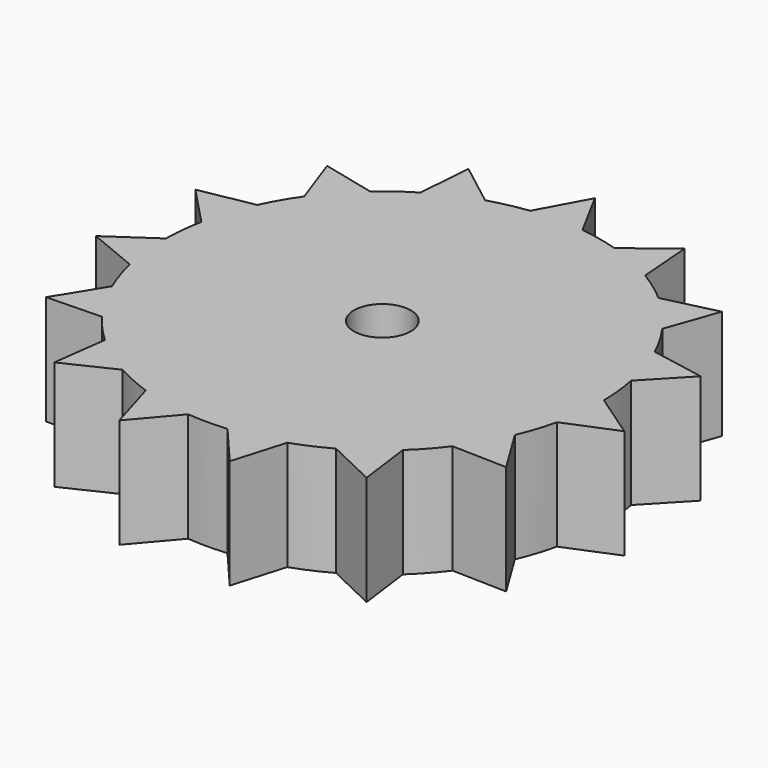
from build123d import *

# Parameters (mm, degrees)
F0_R     = 3.302
F1_DEPTH = 12.7


with BuildPart() as f1:
    # F0 (on Top) → F1 (new body)
    with BuildSketch(Plane.XY):
        with BuildLine():
            ThreePointArc((24.764251, -5.647288), (25.240562, -2.84148), (25.4, 0))
            ThreePointArc((25.4, 0), (25.399308, 0.187557), (25.39723, 0.375103))
            ThreePointArc((25.39723, 0.375103), (25.260856, 2.655023), (24.920228, 4.913475))
            ThreePointArc((24.920228, 4.913475), (24.156836, 7.849032), (23.048956, 10.672658))
            ThreePointArc((23.048956, 10.672658), (21.997045, 12.7), (20.767271, 14.624652))
            ThreePointArc((20.767271, 14.624652), (18.875879, 16.995917), (16.715308, 19.124813))
            ThreePointArc((16.715308, 19.124813), (14.929745, 20.549032), (13.023464, 21.807095))
            ThreePointArc((13.023464, 21.807095), (10.331111, 23.204055), (7.491431, 24.270115))
            ThreePointArc((7.491431, 24.270115), (5.280957, 24.844949), (3.027782, 25.218892))
            ThreePointArc((3.027782, 25.218892), (0, 25.4), (-3.027782, 25.218892))
            ThreePointArc((-3.027782, 25.218892), (-5.280957, 24.844949), (-7.491431, 24.270115))
            ThreePointArc((-7.491431, 24.270115), (-10.331111, 23.204055), (-13.023464, 21.807095))
            ThreePointArc((-13.023464, 21.807095), (-14.929745, 20.549032), (-16.715308, 19.124813))
            ThreePointArc((-16.715308, 19.124813), (-18.875879, 16.995917), (-20.767271, 14.624652))
            ThreePointArc((-20.767271, 14.624652), (-21.997045, 12.7), (-23.048956, 10.672658))
            ThreePointArc((-23.048956, 10.672658), (-24.156836, 7.849032), (-24.920228, 4.913475))
            ThreePointArc((-24.920228, 4.913475), (-25.260856, 2.655023), (-25.39723, 0.375103))
            ThreePointArc((-25.39723, 0.375103), (-25.260856, -2.655023), (-24.764251, -5.647288))
            ThreePointArc((-24.764251, -5.647288), (-24.156836, -7.849032), (-23.354093, -9.98731))
            ThreePointArc((-23.354093, -9.98731), (-21.997045, -12.7), (-20.326311, -15.231582))
            ThreePointArc((-20.326311, -15.231582), (-18.875879, -16.995917), (-17.27282, -18.622827))
            ThreePointArc((-17.27282, -18.622827), (-14.929745, -20.549032), (-12.373766, -22.182198))
            ThreePointArc((-12.373766, -22.182198), (-10.331111, -23.204055), (-8.20492, -24.038288))
            ThreePointArc((-8.20492, -24.038288), (-5.280957, -24.844949), (-2.281685, -25.29731))
            ThreePointArc((-2.281685, -25.29731), (0, -25.4), (2.281685, -25.29731))
            ThreePointArc((2.281685, -25.29731), (5.280957, -24.844949), (8.20492, -24.038288))
            ThreePointArc((8.20492, -24.038288), (10.331111, -23.204055), (12.373766, -22.182198))
            ThreePointArc((12.373766, -22.182198), (14.929745, -20.549032), (17.27282, -18.622827))
            ThreePointArc((17.27282, -18.622827), (18.875879, -16.995917), (20.326311, -15.231582))
            ThreePointArc((20.326311, -15.231582), (21.997045, -12.7), (23.354093, -9.98731))
            ThreePointArc((23.354093, -9.98731), (24.156836, -7.849032), (24.764251, -5.647288))
        make_face()
        Circle(F0_R, mode=Mode.SUBTRACT)
        with BuildLine():
            ThreePointArc((25.39723, 0.375103), (25.399308, 0.187557), (25.4, 0))
            ThreePointArc((25.4, 0), (25.240562, -2.84148), (24.764251, -5.647288))
            Line((24.764251, -5.647288), (30.631833, -3.219535))
            Line((30.631833, -3.219535), (25.39723, 0.375103))
        make_face()
        with BuildLine():
            ThreePointArc((23.048956, 10.672658), (24.156836, 7.849032), (24.920228, 4.913475))
            Line((24.920228, 4.913475), (29.293075, 9.517897))
            Line((29.293075, 9.517897), (23.048956, 10.672658))
        make_face()
        with BuildLine():
            Line((26.674069, -15.400281), (23.354093, -9.98731))
            ThreePointArc((23.354093, -9.98731), (21.997045, -12.7), (20.326311, -15.231582))
            Line((20.326311, -15.231582), (26.674069, -15.400281))
        make_face()
        with BuildLine():
            ThreePointArc((16.715308, 19.124813), (18.875879, 16.995917), (20.767271, 14.624652))
            Line((20.767271, 14.624652), (22.889278, 20.609599))
            Line((22.889278, 20.609599), (16.715308, 19.124813))
        make_face()
        with BuildLine():
            Line((18.104116, -24.918178), (17.27282, -18.622827))
            ThreePointArc((17.27282, -18.622827), (14.929745, -20.549032), (12.373766, -22.182198))
            Line((12.373766, -22.182198), (18.104116, -24.918178))
        make_face()
        with BuildLine():
            ThreePointArc((7.491431, 24.270115), (10.331111, 23.204055), (13.023464, 21.807095))
            Line((13.023464, 21.807095), (12.527717, 28.137714))
            Line((12.527717, 28.137714), (7.491431, 24.270115))
        make_face()
        with BuildLine():
            Line((6.403797, -30.127496), (8.20492, -24.038288))
            ThreePointArc((8.20492, -24.038288), (5.280957, -24.844949), (2.281685, -25.29731))
            Line((2.281685, -25.29731), (6.403797, -30.127496))
        make_face()
        with BuildLine():
            ThreePointArc((-3.027782, 25.218892), (0, 25.4), (3.027782, 25.218892))
            Line((3.027782, 25.218892), (0, 30.800562))
            Line((0, 30.800562), (-3.027782, 25.218892))
        make_face()
        with BuildLine():
            Line((-6.403797, -30.127496), (-2.281685, -25.29731))
            ThreePointArc((-2.281685, -25.29731), (-5.280957, -24.844949), (-8.20492, -24.038288))
            Line((-8.20492, -24.038288), (-6.403797, -30.127496))
        make_face()
        with BuildLine():
            ThreePointArc((-13.023464, 21.807095), (-10.331111, 23.204055), (-7.491431, 24.270115))
            Line((-7.491431, 24.270115), (-12.527717, 28.137714))
            Line((-12.527717, 28.137714), (-13.023464, 21.807095))
        make_face()
        with BuildLine():
            Line((-18.104116, -24.918178), (-12.373766, -22.182198))
            ThreePointArc((-12.373766, -22.182198), (-14.929745, -20.549032), (-17.27282, -18.622827))
            Line((-17.27282, -18.622827), (-18.104116, -24.918178))
        make_face()
        with BuildLine():
            ThreePointArc((-20.767271, 14.624652), (-18.875879, 16.995917), (-16.715308, 19.124813))
            Line((-16.715308, 19.124813), (-22.889278, 20.609599))
            Line((-22.889278, 20.609599), (-20.767271, 14.624652))
        make_face()
        with BuildLine():
            Line((-26.674069, -15.400281), (-20.326311, -15.231582))
            ThreePointArc((-20.326311, -15.231582), (-21.997045, -12.7), (-23.354093, -9.98731))
            Line((-23.354093, -9.98731), (-26.674069, -15.400281))
        make_face()
        with BuildLine():
            ThreePointArc((-24.920228, 4.913475), (-24.156836, 7.849032), (-23.048956, 10.672658))
            Line((-23.048956, 10.672658), (-29.293075, 9.517897))
            Line((-29.293075, 9.517897), (-24.920228, 4.913475))
        make_face()
        with BuildLine():
            Line((-30.631833, -3.219535), (-24.764251, -5.647288))
            ThreePointArc((-24.764251, -5.647288), (-25.260856, -2.655023), (-25.39723, 0.375103))
            Line((-25.39723, 0.375103), (-30.631833, -3.219535))
        make_face()
    extrude(amount=F1_DEPTH)


solid = f1.part
